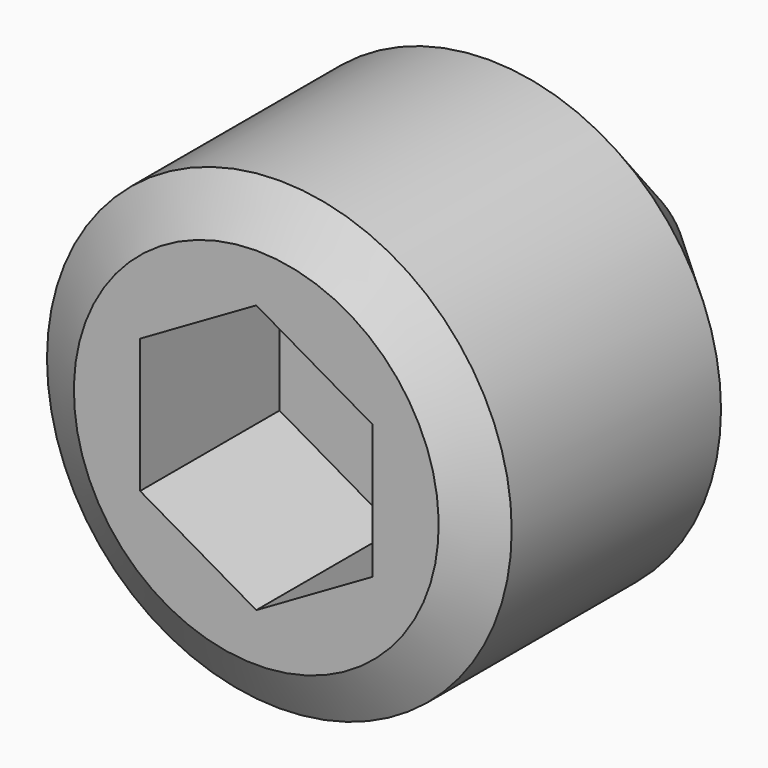
from build123d import *

# Parameters (mm, degrees)
POCKET_DEPTH = 1.5


with BuildPart() as part:
    # Sketch → Revolution (revolve)
    with BuildSketch(Plane.YZ):
        Polygon((0, 0), (0, 1.57), (0.248261, 2), (2.5, 2), (4, 0.5), (4, 0), align=None)
    revolve(axis=Axis((0, 0, 0), (0, 1, 0)))

    # Sketch001 → Pocket (cut)
    with BuildSketch(Plane(origin=(0, 0, 0), x_dir=(0, 0, -1), z_dir=(0, -1, 0))):
        Polygon((-0.57735, -1), (0.57735, -1), (1.154701, 0), (0.57735, 1), (-0.57735, 1), (-1.154701, 0), align=None)
    extrude(amount=-POCKET_DEPTH, mode=Mode.SUBTRACT)


solid = part.part
